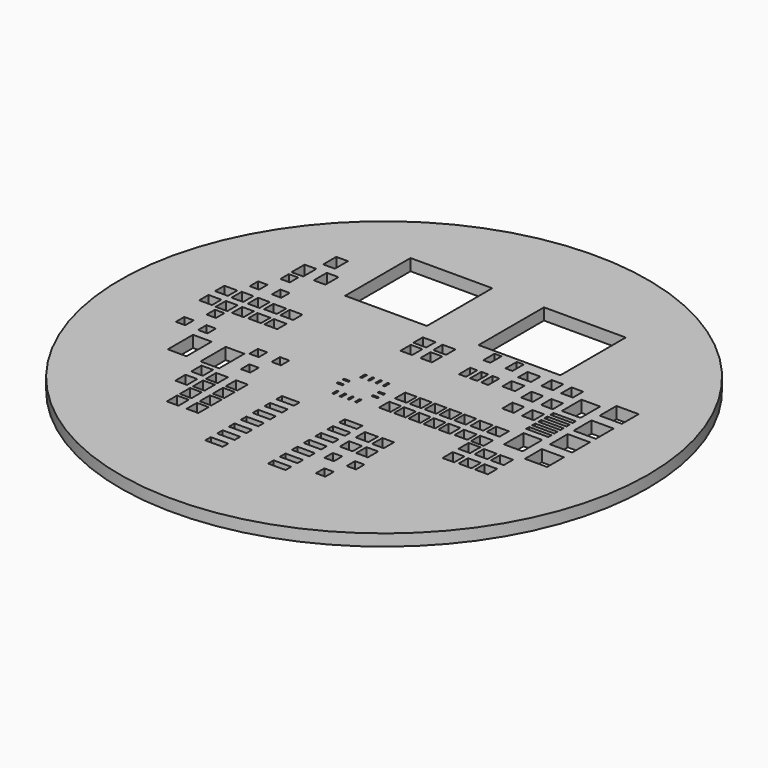
from build123d import *

# Parameters (mm, degrees)
F0_R     = 22.615361
F0_W     = 1.501251
F0_H     = 0.599583
F0_H_2   = 0.599582
F0_W_2   = 1.600417
F0_H_3   = 2.700417
F0_W_3   = 0.801091
F0_H_4   = 0.900257
F0_W_4   = 1.000834
F0_H_5   = 1.1
F0_W_5   = 0.521238
F0_H_6   = 0.1641
F0_H_7   = 0.165512
F0_W_6   = 1.1
F0_H_8   = 1.000835
F0_W_7   = 1.000835
F0_W_8   = 0.521239
F0_H_9   = 1.000834
F0_H_10  = 2.100835
F0_W_9   = 1.901091
F0_H_11  = 1.800513
F0_W_10  = 0.80109
F0_H_12  = 0.900256
F0_H_13  = 1.400674
F0_W_11  = 7.003016
F0_H_14  = 7.003016
F0_W_12  = 0.599583
F0_H_15  = 1.200578
F0_H_16  = 1.200577
F0_W_13  = 1.904973
F0_H_17  = 0.331024
F0_H_18  = 0.331023
F0_H_19  = 1.901091
F0_H_20  = 2.100834
F1_DEPTH = 1


with BuildPart() as f1:
    # F0 (on Top) → F1 (new body)
    with BuildSketch(Plane.XY):
        Circle(F0_R)
        with Locations((-2.893455, -14.305646)):
            Rectangle(F0_W, F0_H, mode=Mode.SUBTRACT)
        with Locations((-2.893455, -13.034488)):
            Rectangle(F0_W, F0_H, mode=Mode.SUBTRACT)
        with Locations((-2.893455, -11.763683)):
            Rectangle(F0_W, F0_H_2, mode=Mode.SUBTRACT)
        with Locations((-13.033958, -4.522282)):
            Rectangle(F0_W_2, F0_H_3, mode=Mode.SUBTRACT)
        with Locations((-15.505518, -1.96532)):
            Rectangle(F0_W_3, F0_H_4, mode=Mode.SUBTRACT)
        with Locations((-13.604781, -1.96532)):
            Rectangle(F0_W_3, F0_H_4, mode=Mode.SUBTRACT)
        with Locations((-8.672955, -11.255502)):
            Rectangle(F0_W_4, F0_H_5, mode=Mode.SUBTRACT)
        with Locations((-10.109625, -8.549791)):
            Rectangle(F0_W_4, F0_H_5, mode=Mode.SUBTRACT)
        with Locations((-8.672955, -9.859063)):
            Rectangle(F0_W_4, F0_H_5, mode=Mode.SUBTRACT)
        with Locations((-6.97196, -11.255502)):
            Rectangle(F0_W_4, F0_H_5, mode=Mode.SUBTRACT)
        with Locations((-6.97196, -9.859063)):
            Rectangle(F0_W_4, F0_H_5, mode=Mode.SUBTRACT)
        with Locations((-8.672955, -8.461566)):
            Rectangle(F0_W_4, F0_H_5, mode=Mode.SUBTRACT)
        with Locations((-10.109625, -6.848444)):
            Rectangle(F0_W_4, F0_H_5, mode=Mode.SUBTRACT)
        with Locations((-8.672955, -7.063715)):
            Rectangle(F0_W_4, F0_H_5, mode=Mode.SUBTRACT)
        with Locations((-6.97196, -8.461566)):
            Rectangle(F0_W_4, F0_H_5, mode=Mode.SUBTRACT)
        with Locations((-6.97196, -7.063715)):
            Rectangle(F0_W_4, F0_H_5, mode=Mode.SUBTRACT)
        with Locations((-2.893455, -10.493937)):
            Rectangle(F0_W, F0_H, mode=Mode.SUBTRACT)
        with Locations((-2.893455, -9.223131)):
            Rectangle(F0_W, F0_H, mode=Mode.SUBTRACT)
        with Locations((-2.893455, -7.953385)):
            Rectangle(F0_W, F0_H, mode=Mode.SUBTRACT)
        with Locations((-2.893455, -6.682227)):
            Rectangle(F0_W, F0_H, mode=Mode.SUBTRACT)
        with Locations((-10.232964, -4.522282)):
            Rectangle(F0_W_2, F0_H_3, mode=Mode.SUBTRACT)
        with Locations((-7.821751, -4.606448)):
            Rectangle(F0_W_3, F0_H_4, mode=Mode.SUBTRACT)
        with Locations((-8.772826, -2.505615)):
            Rectangle(F0_W_3, F0_H_4, mode=Mode.SUBTRACT)
        with Locations((-6.872089, -2.505615)):
            Rectangle(F0_W_3, F0_H_4, mode=Mode.SUBTRACT)
        Polygon((-1.258101, -3.501331), (-1.258101, -3.476628), (-1.092589, -3.476628), (-1.092589, -3.501331), (-1.092589, -3.666843), (-1.092589, -3.832355), (-1.092589, -3.996455), (-1.258101, -3.996455), (-1.258101, -3.832355), (-1.258101, -3.666843), align=None, mode=Mode.SUBTRACT)
        Polygon((-0.607347, -3.501331), (-0.607347, -3.476628), (-0.443247, -3.476628), (-0.443247, -3.501331), (-0.443247, -3.666843), (-0.443247, -3.832355), (-0.443247, -3.996455), (-0.607347, -3.996455), (-0.607347, -3.832355), (-0.607347, -3.666843), align=None, mode=Mode.SUBTRACT)
        with Locations((-1.700465, -2.560667)):
            Rectangle(F0_W_5, F0_H_6, mode=Mode.SUBTRACT)
        with Locations((-1.700465, -1.910619)):
            Rectangle(F0_W_5, F0_H_7, mode=Mode.SUBTRACT)
        Polygon((-1.258101, -0.500594), (-1.258101, -0.474126), (-1.092589, -0.474126), (-1.092589, -0.500594), (-1.092589, -0.665752), (-1.092589, -0.831264), (-1.092589, -0.995364), (-1.258101, -0.995364), (-1.258101, -0.831264), (-1.258101, -0.665752), align=None, mode=Mode.SUBTRACT)
        Polygon((-0.607347, -0.500594), (-0.607347, -0.474126), (-0.443247, -0.474126), (-0.443247, -0.500594), (-0.443247, -0.665752), (-0.443247, -0.831264), (-0.443247, -0.995364), (-0.607347, -0.995364), (-0.607347, -0.831264), (-0.607347, -0.665752), align=None, mode=Mode.SUBTRACT)
        with Locations((2.493615, -14.305646)):
            Rectangle(F0_W, F0_H, mode=Mode.SUBTRACT)
        with Locations((2.493615, -13.034488)):
            Rectangle(F0_W, F0_H, mode=Mode.SUBTRACT)
        with Locations((2.493615, -11.763683)):
            Rectangle(F0_W, F0_H_2, mode=Mode.SUBTRACT)
        with Locations((5.516939, -13.245525)):
            Rectangle(F0_W_3, F0_H_4, mode=Mode.SUBTRACT)
        with Locations((2.493615, -10.493937)):
            Rectangle(F0_W, F0_H, mode=Mode.SUBTRACT)
        with Locations((2.493615, -9.223131)):
            Rectangle(F0_W, F0_H, mode=Mode.SUBTRACT)
        with Locations((4.567277, -11.14469)):
            Rectangle(F0_W_3, F0_H_4, mode=Mode.SUBTRACT)
        with Locations((4.500048, -9.183782)):
            Rectangle(F0_W_6, F0_H_8, mode=Mode.SUBTRACT)
        with Locations((2.493615, -7.953385)):
            Rectangle(F0_W, F0_H, mode=Mode.SUBTRACT)
        with Locations((2.493615, -6.682227)):
            Rectangle(F0_W, F0_H, mode=Mode.SUBTRACT)
        with Locations((4.500048, -7.484199)):
            Rectangle(F0_W_6, F0_H_8, mode=Mode.SUBTRACT)
        with Locations((6.468014, -11.14469)):
            Rectangle(F0_W_3, F0_H_4, mode=Mode.SUBTRACT)
        with Locations((5.898075, -9.183606)):
            Rectangle(F0_W_4, F0_H_5, mode=Mode.SUBTRACT)
        with Locations((5.898075, -7.484023)):
            Rectangle(F0_W_4, F0_H_5, mode=Mode.SUBTRACT)
        with Locations((10.853898, -6.135932)):
            Rectangle(F0_W_4, F0_H_5, mode=Mode.SUBTRACT)
        Polygon((0.043407, -3.501331), (0.043407, -3.476628), (0.207507, -3.476628), (0.207507, -3.501331), (0.207507, -3.666843), (0.207507, -3.832355), (0.207507, -3.996455), (0.043407, -3.996455), (0.043407, -3.832355), (0.043407, -3.666843), align=None, mode=Mode.SUBTRACT)
        Polygon((0.692749, -3.501331), (0.692749, -3.476628), (0.858261, -3.476628), (0.858261, -3.501331), (0.858261, -3.666843), (0.858261, -3.832355), (0.858261, -3.996455), (0.692749, -3.996455), (0.692749, -3.832355), (0.692749, -3.666843), align=None, mode=Mode.SUBTRACT)
        with Locations((2.976741, -3.086493)):
            Rectangle(F0_W_7, F0_H_5, mode=Mode.SUBTRACT)
        with Locations((4.246487, -3.086493)):
            Rectangle(F0_W_4, F0_H_5, mode=Mode.SUBTRACT)
        with Locations((5.517645, -3.086493)):
            Rectangle(F0_W_4, F0_H_5, mode=Mode.SUBTRACT)
        with Locations((1.300625, -2.560667)):
            Rectangle(F0_W_8, F0_H_6, mode=Mode.SUBTRACT)
        with Locations((1.300625, -1.910619)):
            Rectangle(F0_W_8, F0_H_7, mode=Mode.SUBTRACT)
        Polygon((0.043407, -0.500594), (0.043407, -0.474126), (0.207507, -0.474126), (0.207507, -0.500594), (0.207507, -0.665752), (0.207507, -0.831264), (0.207507, -0.995364), (0.043407, -0.995364), (0.043407, -0.831264), (0.043407, -0.665752), align=None, mode=Mode.SUBTRACT)
        Polygon((0.858261, -0.995364), (0.692749, -0.995364), (0.692749, -0.831264), (0.692749, -0.665752), (0.692749, -0.500594), (0.692749, -0.474126), (0.858261, -0.474126), (0.858261, -0.500594), (0.858261, -0.665752), (0.858261, -0.831264), align=None, mode=Mode.SUBTRACT)
        with Locations((2.976741, -1.385499)):
            Rectangle(F0_W_7, F0_H_5, mode=Mode.SUBTRACT)
        with Locations((4.246487, -1.385499)):
            Rectangle(F0_W_4, F0_H_5, mode=Mode.SUBTRACT)
        with Locations((5.517645, -1.385499)):
            Rectangle(F0_W_4, F0_H_5, mode=Mode.SUBTRACT)
        with Locations((6.78845, -3.086493)):
            Rectangle(F0_W_7, F0_H_5, mode=Mode.SUBTRACT)
        with Locations((8.058197, -3.086493)):
            Rectangle(F0_W_4, F0_H_5, mode=Mode.SUBTRACT)
        with Locations((10.853898, -4.434585)):
            Rectangle(F0_W_4, F0_H_5, mode=Mode.SUBTRACT)
        with Locations((9.455871, -3.085258)):
            Rectangle(F0_W_6, F0_H_9, mode=Mode.SUBTRACT)
        with Locations((10.85231, -3.085258)):
            Rectangle(F0_W_6, F0_H_9, mode=Mode.SUBTRACT)
        with Locations((6.78845, -1.385499)):
            Rectangle(F0_W_7, F0_H_5, mode=Mode.SUBTRACT)
        with Locations((8.058197, -1.385499)):
            Rectangle(F0_W_4, F0_H_5, mode=Mode.SUBTRACT)
        with Locations((9.455871, -1.385322)):
            Rectangle(F0_W_6, F0_H_9, mode=Mode.SUBTRACT)
        with Locations((10.85231, -1.385322)):
            Rectangle(F0_W_6, F0_H_9, mode=Mode.SUBTRACT)
        with Locations((12.25016, -6.134344)):
            Rectangle(F0_W_6, F0_H_9, mode=Mode.SUBTRACT)
        with Locations((13.648011, -6.134344)):
            Rectangle(F0_W_6, F0_H_9, mode=Mode.SUBTRACT)
        with Locations((12.25016, -4.434761)):
            Rectangle(F0_W_6, F0_H_9, mode=Mode.SUBTRACT)
        with Locations((13.648011, -4.434761)):
            Rectangle(F0_W_6, F0_H_9, mode=Mode.SUBTRACT)
        with Locations((13.130301, -1.525954)):
            Rectangle(F0_W_2, F0_H_10, mode=Mode.SUBTRACT)
        with Locations((15.680734, -2.426387)):
            Rectangle(F0_W_9, F0_H_11, mode=Mode.SUBTRACT)
        with Locations((-14.555855, 0.135867)):
            Rectangle(F0_W_10, F0_H_4, mode=Mode.SUBTRACT)
        with Locations((-16.08128, 1.487311)):
            Rectangle(F0_W_6, F0_H_8, mode=Mode.SUBTRACT)
        with Locations((-14.683606, 1.487488)):
            Rectangle(F0_W_4, F0_H_5, mode=Mode.SUBTRACT)
        with Locations((-13.285756, 1.487488)):
            Rectangle(F0_W_7, F0_H_5, mode=Mode.SUBTRACT)
        with Locations((-11.887729, 1.487311)):
            Rectangle(F0_W_6, F0_H_8, mode=Mode.SUBTRACT)
        with Locations((-16.08128, 3.188659)):
            Rectangle(F0_W_6, F0_H_9, mode=Mode.SUBTRACT)
        with Locations((-14.683606, 3.188483)):
            Rectangle(F0_W_4, F0_H_5, mode=Mode.SUBTRACT)
        with Locations((-14.870292, 5.149567)):
            Rectangle(F0_W_10, F0_H_12, mode=Mode.SUBTRACT)
        with Locations((-13.285756, 3.188483)):
            Rectangle(F0_W_7, F0_H_5, mode=Mode.SUBTRACT)
        with Locations((-11.887729, 3.188659)):
            Rectangle(F0_W_6, F0_H_9, mode=Mode.SUBTRACT)
        with Locations((-12.970612, 5.149567)):
            Rectangle(F0_W_3, F0_H_12, mode=Mode.SUBTRACT)
        with Locations((-13.920276, 7.248989)):
            Rectangle(F0_W_10, F0_H_4, mode=Mode.SUBTRACT)
        with Locations((-13.854989, 8.732948)):
            Rectangle(F0_W_4, F0_H_13, mode=Mode.SUBTRACT)
        with Locations((-11.953898, 8.732948)):
            Rectangle(F0_W_4, F0_H_13, mode=Mode.SUBTRACT)
        with Locations((-12.903914, 10.93436)):
            Rectangle(F0_W_4, F0_H_13, mode=Mode.SUBTRACT)
        with Locations((-10.49129, 1.487311)):
            Rectangle(F0_W_6, F0_H_8, mode=Mode.SUBTRACT)
        with Locations((-10.49129, 3.188659)):
            Rectangle(F0_W_6, F0_H_9, mode=Mode.SUBTRACT)
        with Locations((-1.049888, 4.242958)):
            Rectangle(F0_W_4, F0_H_5, mode=Mode.SUBTRACT)
        with Locations((-1.049711, 5.640985)):
            Rectangle(F0_W_6, F0_H_9, mode=Mode.SUBTRACT)
        with Locations((-5.916073, 11.10393)):
            Rectangle(F0_W_11, F0_H_14, mode=Mode.SUBTRACT)
        with Locations((0.650048, 4.242958)):
            Rectangle(F0_W_4, F0_H_5, mode=Mode.SUBTRACT)
        with Locations((0.649872, 5.640985)):
            Rectangle(F0_W_6, F0_H_9, mode=Mode.SUBTRACT)
        with Locations((3.93152, 4.086798)):
            Rectangle(F0_W_12, F0_H_15, mode=Mode.SUBTRACT)
        with Locations((4.881184, 4.086798)):
            Rectangle(F0_W_12, F0_H_15, mode=Mode.SUBTRACT)
        with Locations((9.494514, 1.956144)):
            Rectangle(F0_W_4, F0_H_5, mode=Mode.SUBTRACT)
        with Locations((11.195861, 1.956144)):
            Rectangle(F0_W_4, F0_H_5, mode=Mode.SUBTRACT)
        with Locations((5.832612, 4.086798)):
            Rectangle(F0_W_12, F0_H_15, mode=Mode.SUBTRACT)
        with Locations((7.549487, 4.410058)):
            Rectangle(F0_W_6, F0_H_9, mode=Mode.SUBTRACT)
        with Locations((9.494514, 3.989573)):
            Rectangle(F0_W_4, F0_H_5, mode=Mode.SUBTRACT)
        with Locations((11.195861, 3.989573)):
            Rectangle(F0_W_4, F0_H_5, mode=Mode.SUBTRACT)
        with Locations((3.93152, 6.688049)):
            Rectangle(F0_W_12, F0_H_16, mode=Mode.SUBTRACT)
        with Locations((5.517645, 11.10393)):
            Rectangle(F0_W_11, F0_H_14, mode=Mode.SUBTRACT)
        with Locations((5.832612, 6.688049)):
            Rectangle(F0_W_12, F0_H_16, mode=Mode.SUBTRACT)
        with Locations((7.549487, 6.111052)):
            Rectangle(F0_W_6, F0_H_9, mode=Mode.SUBTRACT)
        with Locations((9.494514, 6.149695)):
            Rectangle(F0_W_4, F0_H_5, mode=Mode.SUBTRACT)
        with Locations((11.195861, 6.149695)):
            Rectangle(F0_W_4, F0_H_5, mode=Mode.SUBTRACT)
        with Locations((13.029194, 0.275441)):
            Rectangle(F0_W_13, F0_H_17, mode=Mode.SUBTRACT)
        with Locations((13.029194, 0.924783)):
            Rectangle(F0_W_13, F0_H_18, mode=Mode.SUBTRACT)
        with Locations((13.029194, 1.575537)):
            Rectangle(F0_W_13, F0_H_18, mode=Mode.SUBTRACT)
        with Locations((13.029194, 2.226291)):
            Rectangle(F0_W_13, F0_H_18, mode=Mode.SUBTRACT)
        with Locations((15.680734, 0.305261)):
            Rectangle(F0_W_9, F0_H_19, mode=Mode.SUBTRACT)
        with Locations((13.029194, 2.877045)):
            Rectangle(F0_W_13, F0_H_18, mode=Mode.SUBTRACT)
        with Locations((13.130301, 4.677382)):
            Rectangle(F0_W_2, F0_H_20, mode=Mode.SUBTRACT)
        with Locations((15.680734, 2.845813)):
            Rectangle(F0_W_9, F0_H_19, mode=Mode.SUBTRACT)
        with Locations((15.680734, 5.57605)):
            Rectangle(F0_W_9, F0_H_11, mode=Mode.SUBTRACT)
    extrude(amount=F1_DEPTH)


solid = f1.part
